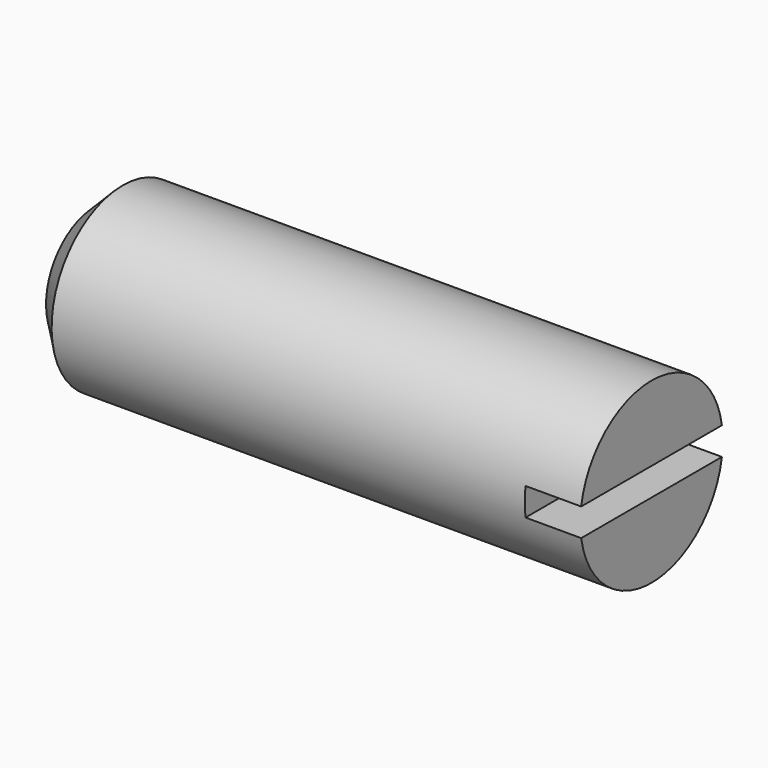
from build123d import *

# Parameters (mm, degrees)
F0_W     = 5
F0_H     = 0.8
F2_W     = 0.5
F2_H     = 0.25
F3_DEPTH = 12.5
F4_SIZE  = 0.25


with BuildPart() as f1:
    # F0 (on Front) → F1 (revolve)
    with BuildSketch(Plane.XZ):
        with Locations((2.5, 0.4)):
            Rectangle(F0_W, F0_H)
    revolve(axis=Axis((2.5, 0, 0), (1, 0, 0)))

    # F2 (on Front) → F3 (cut, symmetric)
    with BuildSketch(Plane.XZ):
        with Locations((4.75, 0)):
            Rectangle(F2_W, F2_H)
    extrude(amount=F3_DEPTH, both=True, mode=Mode.SUBTRACT)

    # F4
    f4_edges = [f1.edges().sort_by_distance(p)[0] for p in [
        (0, 0, -0.8),
    ]]
    chamfer(f4_edges, length=F4_SIZE)


solid = f1.part
